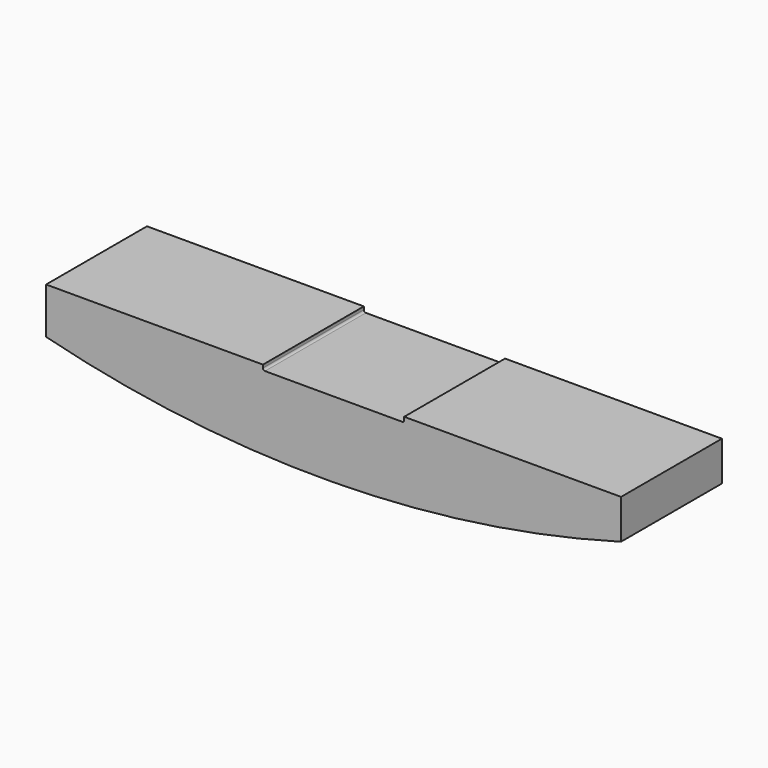
from build123d import *

# Parameters (mm, degrees)
F1_DEPTH = 12.5
F2_R     = 0.2
F3_R     = 0.2


with BuildPart() as f1:
    # F0 (on Front) → F1 (new body)
    with BuildSketch(Plane.XZ):
        with BuildLine():
            Line((28.5, 4), (7, 4))
            Line((7, 4), (7, 3.5))
            Line((7, 3.5), (0, 3.5))
            Line((0, 3.5), (-7, 3.5))
            Line((-7, 3.5), (-7, 4))
            Line((-7, 4), (-28.5, 4))
            Line((-28.5, 4), (-28.5, 0))
            Line((-28.5, 0), (-28.5, -0.572795))
            ThreePointArc((-28.5, -0.572795), (-0.117692, -4.001252), (28.189545, 0))
            ThreePointArc((28.189545, 0), (28.344804, 0.043215), (28.5, 0.086657))
            Line((28.5, 0.086657), (28.5, 4))
        make_face()
    extrude(amount=F1_DEPTH)

    # F2
    f2_edges = [f1.edges().sort_by_distance(p)[0] for p in [
        (-7, -6.25, 3.5),
    ]]
    fillet(f2_edges, radius=F2_R)

    # F3
    f3_edges = [f1.edges().sort_by_distance(p)[0] for p in [
        (7, -6.25, 3.5),
    ]]
    fillet(f3_edges, radius=F3_R)


solid = f1.part
